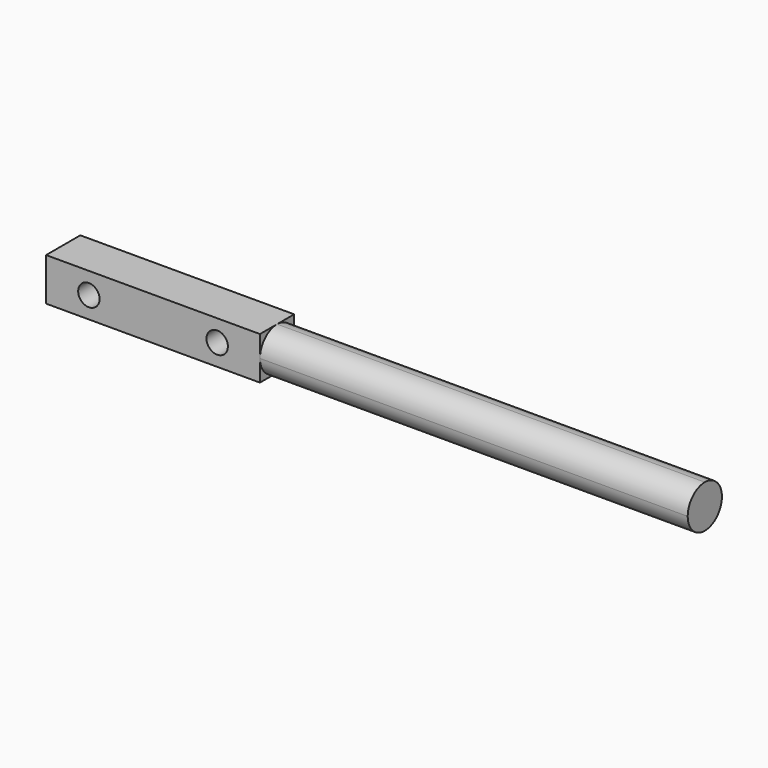
from build123d import *

# Parameters (mm, degrees)
F0_W     = 2.5
F0_H     = 0.5
F0_R     = 0.125
F1_DEPTH = 0.25
F3_DEPTH = 5


with BuildPart() as f1:
    # F0 (on Front) → F1 (new body, symmetric)
    with BuildSketch(Plane.XZ):
        with Locations((-25.041123, 0.25)):
            Rectangle(F0_W, F0_H)
        with Locations((-25.791123, 0.25)):
            Circle(F0_R, mode=Mode.SUBTRACT)
        with Locations((-24.291123, 0.25)):
            Circle(F0_R, mode=Mode.SUBTRACT)
    extrude(amount=F1_DEPTH, both=True)

    # F2 (on face) → F3 (join)
    with BuildSketch(Plane.YZ.offset(-23.791123)):
        with BuildLine():
            ThreePointArc((0, 0), (0.176777, 0.073223), (0.25, 0.25))
            ThreePointArc((0.25, 0.25), (0.176777, 0.426777), (0, 0.5))
            ThreePointArc((0, 0.5), (-0.176777, 0.426777), (-0.25, 0.25))
            ThreePointArc((-0.25, 0.25), (-0.176777, 0.073223), (0, 0))
        make_face()
    extrude(amount=F3_DEPTH)


solid = f1.part
